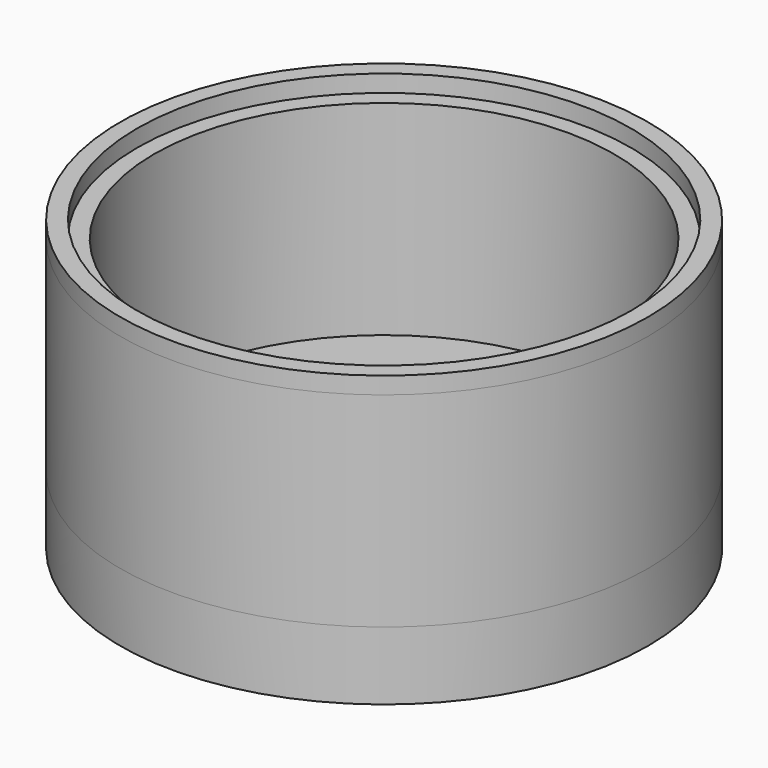
from build123d import *

# Parameters (mm, degrees)
F0_R     = 49.2125
F0_R_2   = 46.0375
F1_DEPTH = 53.975
F0_R_3   = 42.8625
F2_DEPTH = 50.8
F0_R_4   = 19.685
F0_R_5   = 9.525
F0_R_6   = 6.985
F3_DEPTH = 12.7
F4_DEPTH = 1.5875


with BuildPart() as f1:
    # F0 (on Top) → F1 (new body)
    with BuildSketch(Plane.XY):
        Circle(F0_R)
        Circle(F0_R_2, mode=Mode.SUBTRACT)
    extrude(amount=F1_DEPTH)


with BuildPart() as f2:
    # F0 (on Top) → F2 (new body)
    with BuildSketch(Plane.XY):
        Circle(F0_R)
        Circle(F0_R_2, mode=Mode.SUBTRACT)
        Circle(F0_R_2)
        Circle(F0_R_3, mode=Mode.SUBTRACT)
    extrude(amount=F2_DEPTH)


with BuildPart() as f3:
    # F0 (on Top) → F3 (new body)
    with BuildSketch(Plane.XY):
        Circle(F0_R)
        Circle(F0_R_2, mode=Mode.SUBTRACT)
        Circle(F0_R_3)
        Circle(F0_R_4, mode=Mode.SUBTRACT)
        Circle(F0_R_5)
        Circle(F0_R_6, mode=Mode.SUBTRACT)
    extrude(amount=F3_DEPTH)


with BuildPart() as f4:
    # F0 (on Top) → F4 (new body)
    with BuildSketch(Plane.XY):
        Circle(F0_R_4)
        Circle(F0_R_5, mode=Mode.SUBTRACT)
        Circle(F0_R_6)
    extrude(amount=F4_DEPTH)


solid = Compound([f1.part, f2.part, f3.part, f4.part])
